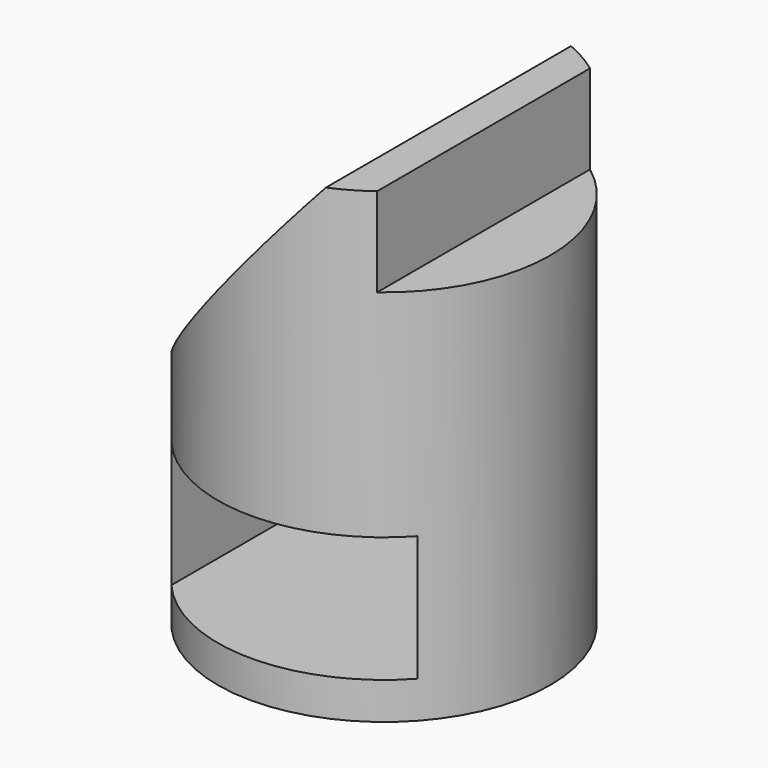
from build123d import *

# Parameters (mm, degrees)
F0_R     = 19.694794
F1_DEPTH = 55.372
F4_DEPTH = 114.046
F6_DEPTH = 254


with BuildPart() as f1:
    # F0 (on Top) → F1 (new body)
    with BuildSketch(Plane.XY):
        Circle(F0_R)
    extrude(amount=F1_DEPTH)

    # F3 (on offset) → F4 (cut)
    with BuildSketch(Plane.XZ.offset(62.738)):
        Polygon((23.87774, 61.791748), (11.794434, 56.214053), (11.794434, 44.826049), (23.87774, 44.826049), align=None)
    extrude(amount=-F4_DEPTH, mode=Mode.SUBTRACT)

    # F5 (on offset) → F6 (cut)
    with BuildSketch(Plane.XZ.offset(62.738)):
        Polygon((-14.930949, 19.263754), (-14.930949, 14.383911), (-14.930949, 4.391609), (14.583289, 4.391609), (14.583289, 19.263754), align=None)
        Polygon((8.540357, 56.446675), (0, 56.446675), (-21.901777, 57.607204), (-21.901777, 20.426836), align=None)
    extrude(amount=-F6_DEPTH, mode=Mode.SUBTRACT)


solid = f1.part
